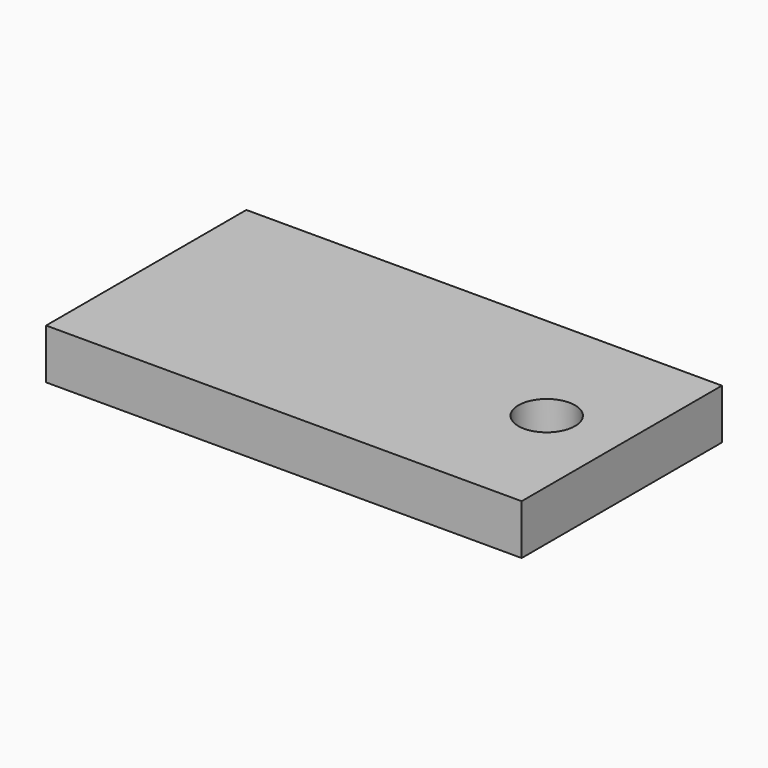
from build123d import *

# Parameters (mm, degrees)
CYLINDER098_R     = 1.13
CYLINDER098_DEPTH = 10
BOX_W             = 19
BOX_H             = 10
BOX_DEPTH         = 2


with BuildPart() as cylinder098:
    # Cylinder098 → Cylinder098 (new body)
    with BuildSketch(Plane(origin=(6.5, -83, 0), x_dir=(1, 0, 0), z_dir=(0, 0, 1))):
        Circle(CYLINDER098_R)
    extrude(amount=CYLINDER098_DEPTH)


with BuildPart() as obj1:
    # Box → Box (new body)
    with BuildSketch(Plane(origin=(-9.5, -88, 0), x_dir=(1, 0, 0), z_dir=(0, 0, 1))):
        with Locations((9.5, 5)):
            Rectangle(BOX_W, BOX_H)
    extrude(amount=BOX_DEPTH)

    # Cut018: cut Cylinder098
    add(cylinder098.part, mode=Mode.SUBTRACT)


with BuildPart() as obj1_1:
    # Cut018 placement: moved
    add(obj1.part.moved(Location((0, 0, 110))))


solid = obj1_1.part
